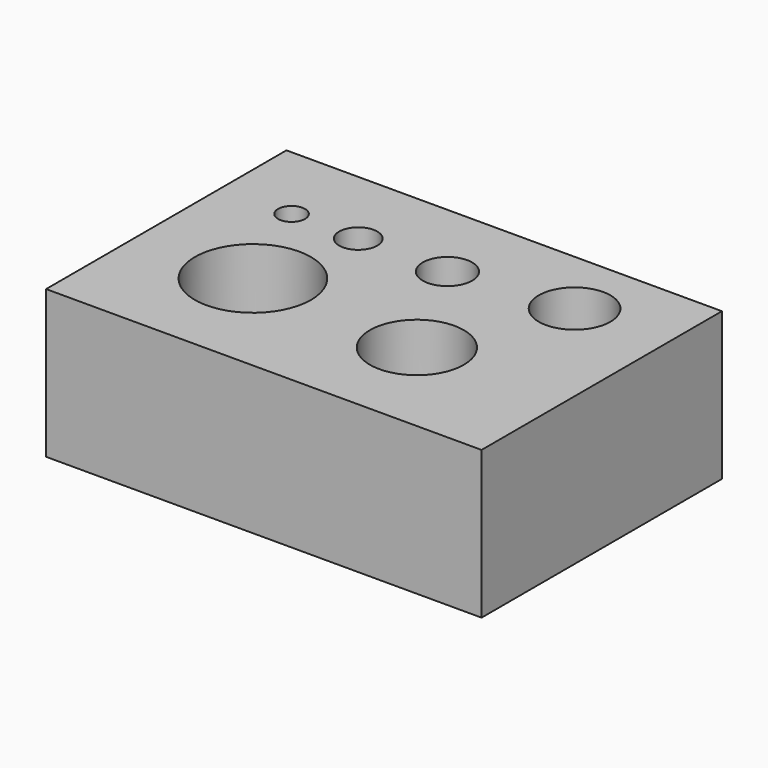
from build123d import *

# Parameters (mm, degrees)
F0_W     = 38.335238
F0_H     = 26.449039
F0_R     = 5.115
F0_R_2   = 4.135
F0_R_3   = 1.19
F0_R_4   = 1.68
F0_R_5   = 2.175
F0_R_6   = 3.155
F1_DEPTH = 13


with BuildPart() as f1:
    # F0 (on Top) → F1 (new body)
    with BuildSketch(Plane.XY):
        with Locations((4.977619, -3.476335)):
            Rectangle(F0_W, F0_H)
        with Locations((-4.075, -6.585854)):
            Circle(F0_R, mode=Mode.SUBTRACT)
        with Locations((11.143479, -7.565854)):
            Circle(F0_R_2, mode=Mode.SUBTRACT)
        with Locations((-8, 2.573185)):
            Circle(F0_R_3, mode=Mode.SUBTRACT)
        with Locations((-2.13, 2.573185)):
            Circle(F0_R_4, mode=Mode.SUBTRACT)
        with Locations((5.725, 2.573185)):
            Circle(F0_R_5, mode=Mode.SUBTRACT)
        with Locations((15.990238, 3.728084)):
            Circle(F0_R_6, mode=Mode.SUBTRACT)
    extrude(amount=F1_DEPTH)


solid = f1.part
